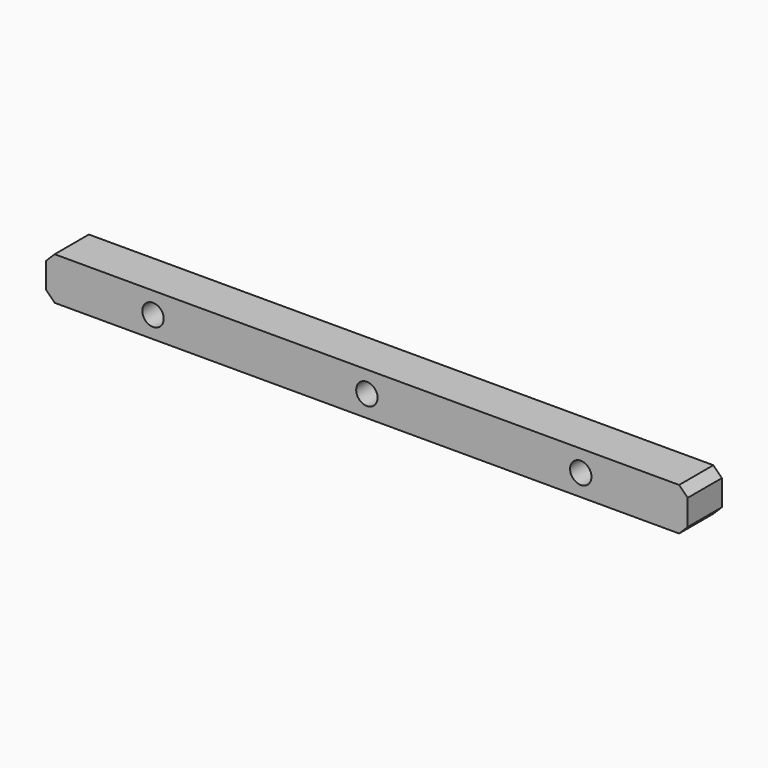
from build123d import *

# Parameters (mm, degrees)
F1_DEPTH = 25.4
F2_R     = 6.35
F3_DEPTH = 50.8
F4_SIZE  = 5.08
F5_SIZE  = 5.08


with BuildPart() as f1:
    # F0 (on Front) → F1 (new body)
    with BuildSketch(Plane.XZ):
        Polygon((-190.5, 0), (0, 0), (190.5, 0), (190.5, 25.4), (-190.5, 25.4), align=None)
    extrude(amount=F1_DEPTH)

    # F2 (on face) → F3 (cut)
    with BuildSketch(Plane.XZ.offset(25.4)):
        with Locations((-127, 12.7)):
            Circle(F2_R)
        with Locations((0, 12.7)):
            Circle(F2_R)
        with Locations((127, 12.7)):
            Circle(F2_R)
    extrude(amount=-F3_DEPTH, mode=Mode.SUBTRACT)

    # F4
    f4_edges = [f1.edges().sort_by_distance(p)[0] for p in [
        (-190.5, -12.7, 25.4),
    ]]
    chamfer(f4_edges, length=F4_SIZE)

    # F5
    f5_edges = [f1.edges().sort_by_distance(p)[0] for p in [
        (-190.5, -12.7, 0),
        (190.5, -12.7, 25.4),
        (190.5, -12.7, 0),
    ]]
    chamfer(f5_edges, length=F5_SIZE)


solid = f1.part
